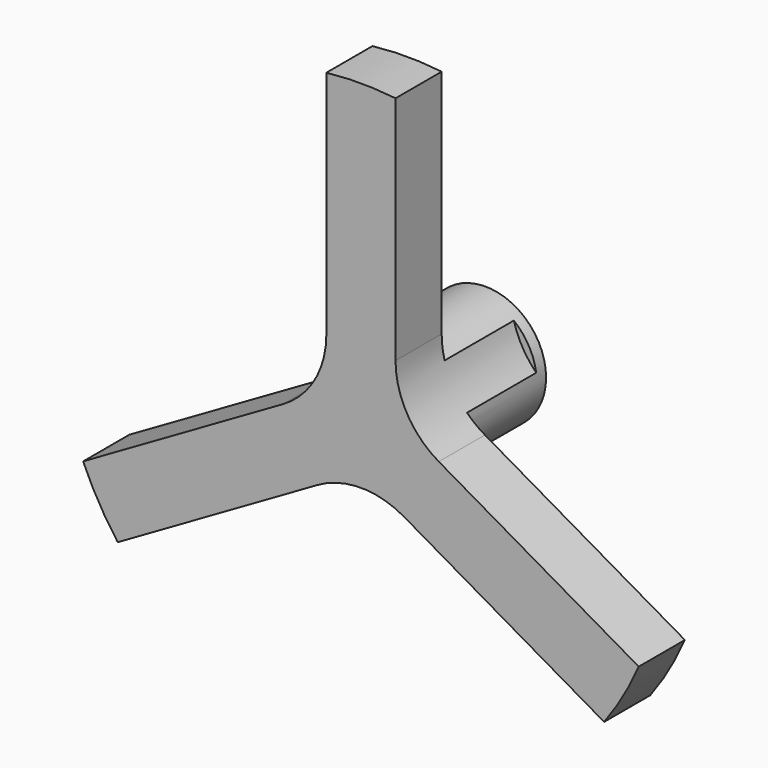
from build123d import *

# Parameters (mm, degrees)
F0_R     = 10.5
F1_DEPTH = 17
F2_R     = 52.5
F3_DEPTH = 10
F5_DEPTH = 25


with BuildPart() as f1:
    # F0 (on Front) → F1 (new body)
    with BuildSketch(Plane.XZ):
        Circle(F0_R)
    extrude(amount=F1_DEPTH)

    # F2 (on face) → F3 (join)
    with BuildSketch(Plane.XZ.offset(17)):
        Circle(F2_R)
    extrude(amount=F3_DEPTH)

    # F4 (on face) → F5 (cut)
    with BuildSketch(Plane.XZ.offset(27)):
        with BuildLine():
            ThreePointArc((-13.5, -0.866025), (-8.009619, 4.624356), (-6, 12.124356))
            Line((-6, 12.124356), (-6, 52.156016))
            ThreePointArc((-6, 52.156016), (-45.466334, 26.25), (-48.168435, -20.881856))
            Line((-48.168435, -20.881856), (-13.5, -0.866025))
        make_face()
        with BuildLine():
            ThreePointArc((52.5, 0), (39.187051, 34.937444), (6, 52.156016))
            Line((6, 52.156016), (6, 12.124356))
            ThreePointArc((6, 12.124356), (8.009619, 4.624356), (13.5, -0.866025))
            Line((13.5, -0.866025), (48.168435, -20.881856))
            ThreePointArc((48.168435, -20.881856), (51.405704, -10.663188), (52.5, 0))
        make_face()
        with BuildLine():
            Line((-7.5, -11.25833), (-42.168435, -31.27416))
            ThreePointArc((-42.168435, -31.27416), (0, -52.5), (42.168435, -31.27416))
            Line((42.168435, -31.27416), (7.5, -11.25833))
            ThreePointArc((7.5, -11.25833), (0, -9.248711), (-7.5, -11.25833))
        make_face()
    extrude(amount=-F5_DEPTH, mode=Mode.SUBTRACT)


solid = f1.part
